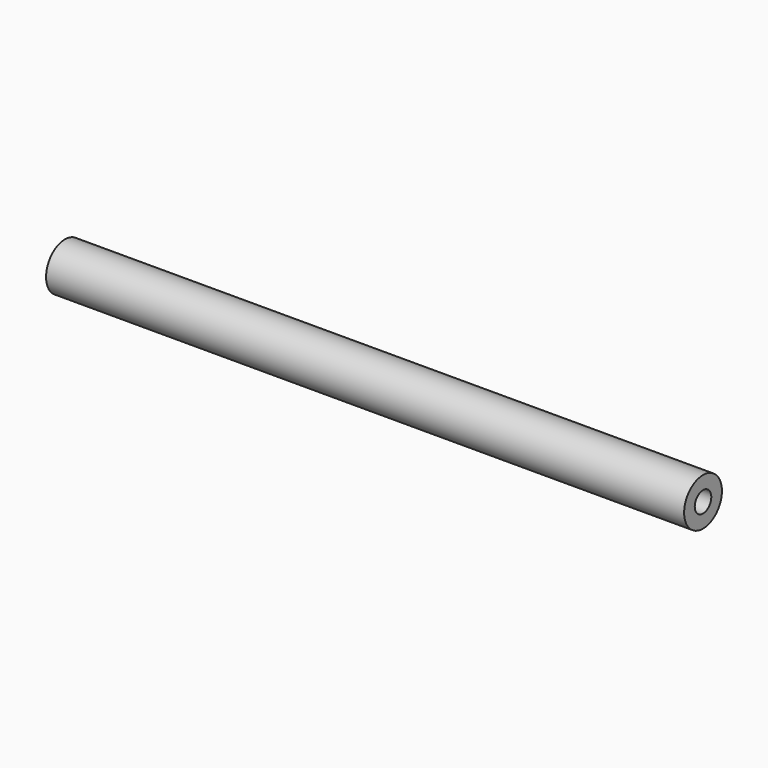
from build123d import *

# Parameters (mm, degrees)
F0_R           = 20
F1_DEPTH       = 270
F4_D           = 17.5
F4_DEPTH       = 52.5
F4_TIP         = 5.2575304165
F4_ON_F3_D     = 17.5
F4_ON_F3_DEPTH = 52.5
F4_ON_F3_TIP   = 5.2575304165


with BuildPart() as f1:
    # F0 (on Right) → F1 (new body, symmetric)
    with BuildSketch(Plane.YZ):
        Circle(F0_R)
    extrude(amount=F1_DEPTH, both=True)

    # F4
    with Locations(Plane.YZ.offset(270)):
        with Locations((0, 0)):
            Hole(F4_D / 2, depth=F4_DEPTH)
            with Locations((0, 0, -(F4_DEPTH + F4_TIP / 2))):  # 118° drill point
                Cone(0, F4_D / 2, F4_TIP, mode=Mode.SUBTRACT)

    # F4 on F3
    with Locations(Plane(origin=(-270, 0, 0), x_dir=(0, -1, 0), z_dir=(-1, 0, 0))):
        with Locations((0, 0)):
            Hole(F4_ON_F3_D / 2, depth=F4_ON_F3_DEPTH)
            with Locations((0, 0, -(F4_ON_F3_DEPTH + F4_ON_F3_TIP / 2))):  # 118° drill point
                Cone(0, F4_ON_F3_D / 2, F4_ON_F3_TIP, mode=Mode.SUBTRACT)


solid = f1.part
